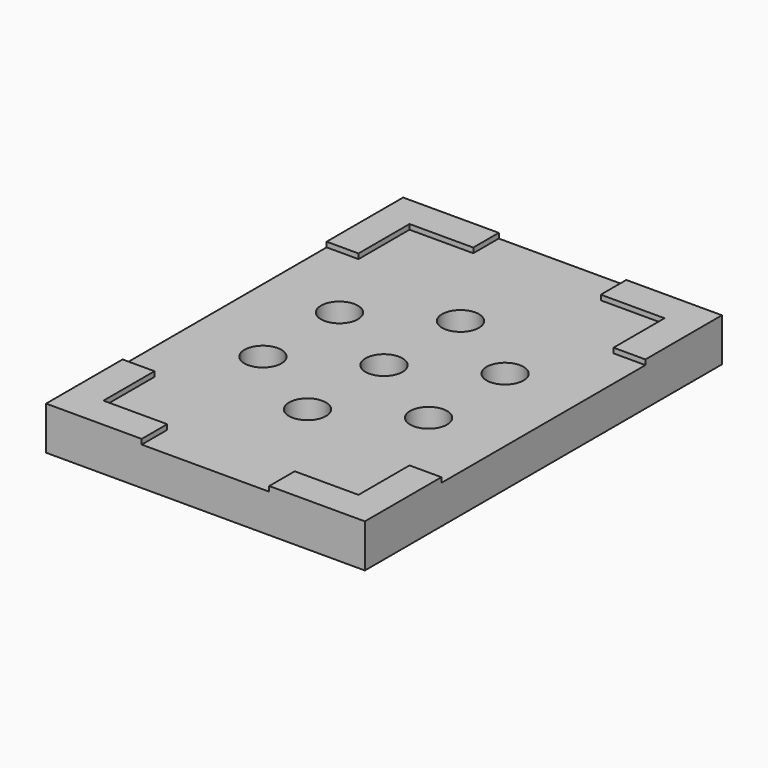
from build123d import *

# Parameters (mm, degrees)
F0_W     = 63.5
F0_H     = 88.9
F1_DEPTH = 7.62
F2_R     = 2.286
F3_DEPTH = 25.4
F4_R     = 3.683
F4_R_2   = 2.286
F5_DEPTH = 5.08
F7_DEPTH = 1


with BuildPart() as f1:
    # F0 (on Top) → F1 (new body)
    with BuildSketch(Plane.XY):
        with Locations((31.75, 44.45)):
            Rectangle(F0_W, F0_H)
    extrude(amount=F1_DEPTH)

    # F2 (on face) → F3 (cut)
    with BuildSketch(Plane.XY.offset(7.62)):
        with BuildLine():
            ThreePointArc((34.036, 63.5), (30.1335538982, 65.1164461018), (31.75, 61.214))
            ThreePointArc((31.75, 61.214), (33.3664461018, 61.8835538982), (34.036, 63.5))
        make_face()
        with Locations((31.75, 25.4)):
            Circle(F2_R)
        with BuildLine():
            Line((48.2477839421, 34.925), (48.2477839421, 37.211))
            ThreePointArc((48.2477839421, 37.211), (46.6313378403, 36.5414461018), (45.9617839421, 34.925))
            Line((45.9617839421, 34.925), (48.2477839421, 34.925))
        make_face()
        with BuildLine():
            ThreePointArc((50.5337839421, 34.925), (49.8642300439, 36.5414461018), (48.2477839421, 37.211))
            Line((48.2477839421, 37.211), (48.2477839421, 34.925))
            Line((48.2477839421, 34.925), (45.9617839421, 34.925))
            ThreePointArc((45.9617839421, 34.925), (48.2477839421, 32.639), (50.5337839421, 34.925))
        make_face()
        with BuildLine():
            Line((48.2477839421, 53.975), (45.9617839421, 53.975))
            ThreePointArc((45.9617839421, 53.975), (46.6313378403, 52.3585538982), (48.2477839421, 51.689))
            Line((48.2477839421, 51.689), (48.2477839421, 53.975))
        make_face()
        with BuildLine():
            ThreePointArc((50.5337839421, 53.975), (48.2477839421, 56.261), (45.9617839421, 53.975))
            Line((45.9617839421, 53.975), (48.2477839421, 53.975))
            Line((48.2477839421, 53.975), (48.2477839421, 51.689))
            ThreePointArc((48.2477839421, 51.689), (49.8642300439, 52.3585538982), (50.5337839421, 53.975))
        make_face()
        with BuildLine():
            Line((15.2522160579, 53.975), (17.5382160579, 53.975))
            ThreePointArc((17.5382160579, 53.975), (13.6357699561, 55.5914461018), (15.2522160579, 51.689))
            Line((15.2522160579, 51.689), (15.2522160579, 53.975))
        make_face()
        with BuildLine():
            ThreePointArc((15.2522160579, 51.689), (16.8686621597, 52.3585538982), (17.5382160579, 53.975))
            Line((17.5382160579, 53.975), (15.2522160579, 53.975))
            Line((15.2522160579, 53.975), (15.2522160579, 51.689))
        make_face()
        with BuildLine():
            ThreePointArc((17.5382160579, 34.925), (16.8686621597, 36.5414461018), (15.2522160579, 37.211))
            Line((15.2522160579, 37.211), (15.2522160579, 34.925))
            Line((15.2522160579, 34.925), (17.5382160579, 34.925))
        make_face()
        with BuildLine():
            Line((15.2522160579, 34.925), (15.2522160579, 37.211))
            ThreePointArc((15.2522160579, 37.211), (13.6357699561, 33.3085538982), (17.5382160579, 34.925))
            Line((17.5382160579, 34.925), (15.2522160579, 34.925))
        make_face()
        with BuildLine():
            ThreePointArc((31.75, 46.736), (30.1335538982, 42.8335538982), (34.036, 44.45))
            ThreePointArc((34.036, 44.45), (33.3664461018, 46.0664461018), (31.75, 46.736))
        make_face()
    extrude(amount=-F3_DEPTH, mode=Mode.SUBTRACT)

    # F4 (on face) → F5 (cut)
    with BuildSketch(Plane.XY.offset(7.62)):
        with Locations((15.2522160579, 34.925)):
            Circle(F4_R)
        with Locations((15.2522160579, 34.925)):
            Circle(F4_R_2, mode=Mode.SUBTRACT)
        with Locations((15.2522160579, 53.975)):
            Circle(F4_R)
        with Locations((15.2522160579, 53.975)):
            Circle(F4_R_2, mode=Mode.SUBTRACT)
        with Locations((31.75, 63.5)):
            Circle(F4_R)
        with Locations((31.75, 63.5)):
            Circle(F4_R_2, mode=Mode.SUBTRACT)
        with Locations((48.2477839421, 53.975)):
            Circle(F4_R)
        with Locations((48.2477839421, 53.975)):
            Circle(F4_R_2, mode=Mode.SUBTRACT)
        with Locations((48.2477839421, 34.925)):
            Circle(F4_R)
        with Locations((48.2477839421, 34.925)):
            Circle(F4_R_2, mode=Mode.SUBTRACT)
        with Locations((31.75, 25.4)):
            Circle(F4_R)
        with Locations((31.75, 25.4)):
            Circle(F4_R_2, mode=Mode.SUBTRACT)
        with Locations((31.75, 44.45)):
            Circle(F4_R)
        with Locations((31.75, 44.45)):
            Circle(F4_R_2, mode=Mode.SUBTRACT)
    extrude(amount=-F5_DEPTH, mode=Mode.SUBTRACT)

    # F6 (on face) → F7 (join)
    with BuildSketch(Plane.XY.offset(7.62)):
        Polygon((6.35, 19.05), (0, 19.05), (0, 0), (19.05, 0), (19.05, 6.35), (6.35, 6.35), align=None)
        Polygon((44.45, 6.35), (44.45, 0), (63.5, 0), (63.5, 19.05), (57.15, 19.05), (57.15, 6.35), align=None)
        Polygon((63.5, 88.9), (44.45, 88.9), (44.45, 82.55), (57.15, 82.55), (57.15, 69.85), (63.5, 69.85), align=None)
        Polygon((0, 88.9), (0, 69.85), (6.35, 69.85), (6.35, 82.55), (19.05, 82.55), (19.05, 88.9), align=None)
    extrude(amount=F7_DEPTH)


solid = f1.part
